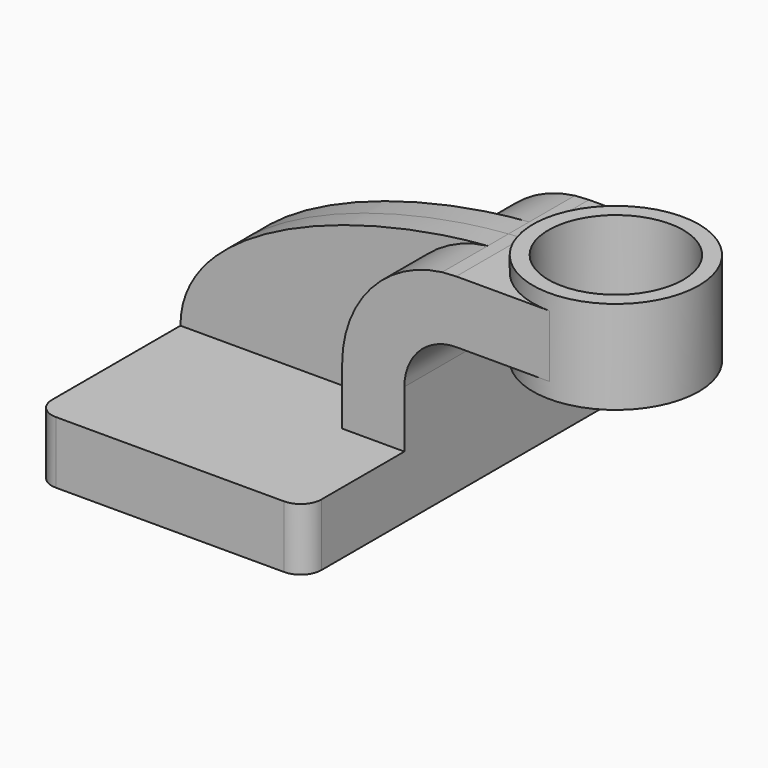
from build123d import *

# Parameters (mm, degrees)
F1_DEPTH = 63.5
F0_W     = 25.4
F0_H     = 19.05
F2_DEPTH = 25.4
F3_DEPTH = 7.9375
F5_R     = 6.35
F6_R     = 20.6375
F7_DEPTH = 28.575


with BuildPart() as f1:
    # F0 (on Front) → F1 (new body, symmetric)
    with BuildSketch(Plane.XZ):
        Polygon((22.225, 9.525), (-41.275, 9.525), (-41.275, -9.525), (41.275, -9.525), (41.275, 9.525), align=None)
    extrude(amount=F1_DEPTH, both=True)

    # F0 (on Front) → F2 (join, symmetric)
    with BuildSketch(Plane.XZ):
        with BuildLine():
            Line((22.225, 26.9875), (22.225, 9.525))
            Line((22.225, 9.525), (41.275, 9.525))
            Line((41.275, 9.525), (41.275, 26.9875))
            ThreePointArc((41.275, 26.9875), (45.9246798487, 38.2128201513), (57.15, 42.8625))
            Line((57.15, 42.8625), (60.325, 42.8625))
            Line((60.325, 42.8625), (60.325, 61.9125))
            Line((60.325, 61.9125), (57.15, 61.9125))
            add(Edge.make_bspline(
                [(52.8412517036, 61.645692583), (54.2960084782, 61.7553557468), (55.7333080452, 61.8443643855), (57.15, 61.9125)],
                knots=[107.618064177, 107.618064177, 107.618064177, 107.618064177, 111.4985685166, 111.4985685166, 111.4985685166, 111.4985685166], degree=3))
            ThreePointArc((52.8412517036, 61.645692583), (30.9752157673, 50.1097035147), (22.225, 26.9875))
        make_face()
        with Locations((73.025, 52.3875)):
            Rectangle(F0_W, F0_H)
    extrude(amount=F2_DEPTH, both=True)

    # F0 (on Front) → F3 (join, symmetric)
    with BuildSketch(Plane.XZ):
        with BuildLine():
            add(Edge.make_bspline(
                [(-41.275, 9.525), (-41.275, 39.6773087956), (12.4964680785, 58.6044030066), (52.8412517036, 61.645692583)],
                knots=[0, 0, 0, 0, 107.618064177, 107.618064177, 107.618064177, 107.618064177], degree=3))
            Line((-41.275, 9.525), (22.225, 9.525))
            Line((22.225, 9.525), (22.225, 26.9875))
            ThreePointArc((22.225, 26.9875), (30.9752157673, 50.1097035147), (52.8412517036, 61.645692583))
        make_face()
    extrude(amount=F3_DEPTH, both=True)

    # F0 (on Front) → F4 (revolve)
    with BuildSketch(Plane.XZ):
        Polygon((85.725, 66.675), (85.725, 61.9125), (85.725, 42.8625), (85.725, 38.1), (111.125, 38.1), (111.125, 66.675), align=None)
    revolve(axis=Axis((85.725, 0, 52.3875), (0, 0, 1)))

    # F5
    f5_edges = [f1.edges().sort_by_distance(p)[0] for p in [
        (41.275, -63.5, 0),
        (-41.275, -63.5, 0),
        (41.275, 63.5, 0),
        (-41.275, 63.5, 0),
    ]]
    fillet(f5_edges, radius=F5_R)

    # F6 (on face) → F7 (cut, through all)
    with BuildSketch(Plane.XY.offset(66.675)):
        with Locations((85.725, 0)):
            Circle(F6_R)
    extrude(amount=-F7_DEPTH, mode=Mode.SUBTRACT)


solid = f1.part
